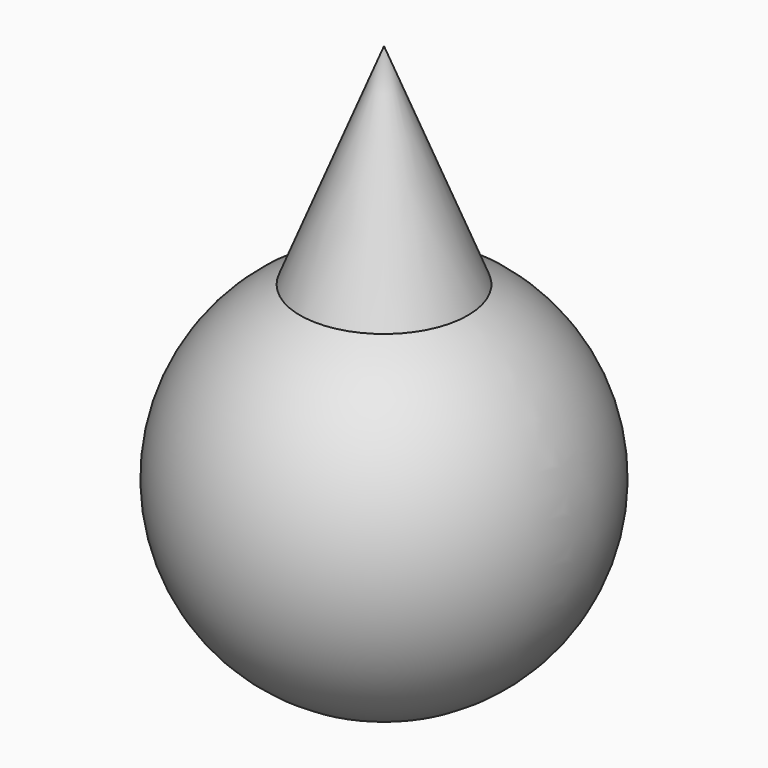
from build123d import *


with BuildPart() as cone:
    # Cone → Cone (revolve)
    with BuildSketch(Plane.XZ):
        Polygon((0, 0), (4, 0), (0, 10), align=None)
    revolve(axis=Axis((0, 0, 0), (0, 0, 1)))


with BuildPart() as fusion:
    # Sphere001 → Sphere001 (revolve)
    with BuildSketch(Plane.XZ):
        with BuildLine():
            ThreePointArc((0, -5), (5, 0), (0, 5))
            Line((0, 5), (0, -5))
        make_face()
    revolve(axis=Axis((0, 0, 0), (0, 0, 1)))

    # Fusion: union Cone
    add(cone.part)


solid = fusion.part
